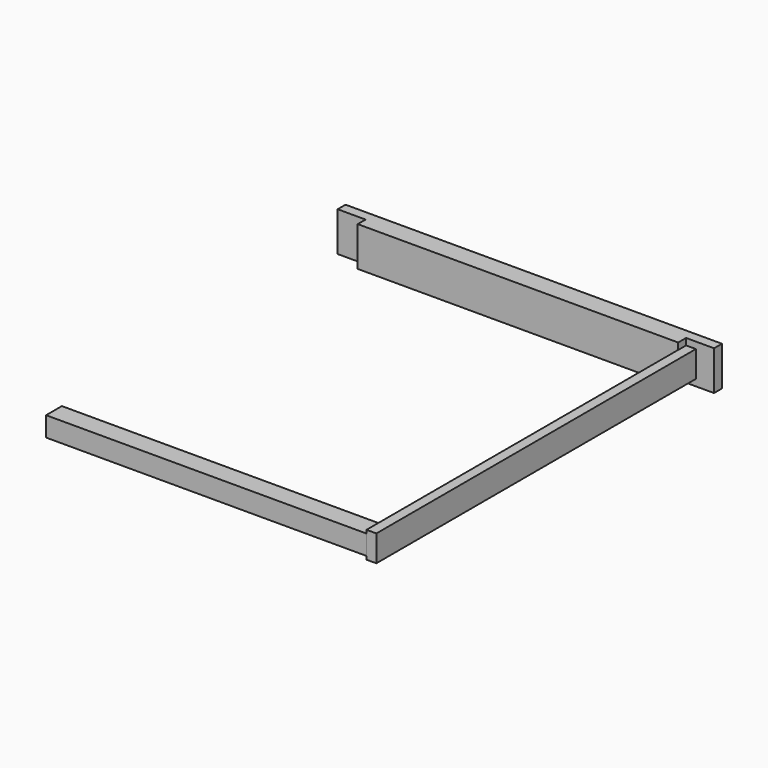
from build123d import *

# Parameters (mm, degrees)
PAD_DEPTH    = 19.05
SKETCH004_W  = 19.05
SKETCH004_H  = 19.05
PAD006_DEPTH = 309.56
SKETCH001_W  = 385.76
SKETCH001_H  = 25.4
PAD001_DEPTH = 9.525
PAD002_DEPTH = 9.53


with BuildPart() as top_bar:
    # Sketch → Pad (new body, symmetric)
    with BuildSketch(Plane.XY):
        Polygon((-181.77, 9.525), (-181.77, 19.05), (181.77, 19.05), (181.77, 9.525), (154.7825, 9.525), (154.7825, 0), (-154.7825, 0), (-154.7825, 9.525), align=None)
    extrude(amount=PAD_DEPTH, both=True)


with BuildPart() as bottom_bar:
    # Sketch004 (on ShapeBinder) → Pad006 (new body)
    with BuildSketch(Plane.YZ.offset(-154.7825)):
        with Locations((-366.71, 0)):
            Rectangle(SKETCH004_W, SKETCH004_H)
    extrude(amount=PAD006_DEPTH)


with BuildPart() as right_bar:
    # Sketch001 (on ShapeBinder) → Pad001 (new body)
    with BuildSketch(Plane(origin=(-154.7825, 0, 0), x_dir=(0, -1, 0), z_dir=(-1, 0, 0))):
        with Locations((183.355, 0)):
            Rectangle(SKETCH001_W, SKETCH001_H)
    extrude(amount=PAD001_DEPTH)

    # Sketch001 (on ShapeBinder) → Pad002 (join)
    with BuildSketch(Plane(origin=(-154.7825, 0, 0), x_dir=(0, -1, 0), z_dir=(-1, 0, 0))):
        with Locations((183.355, 0)):
            Rectangle(SKETCH001_W, SKETCH001_H)
    extrude(amount=PAD002_DEPTH)


with BuildPart() as right_bar_1:
    # Body005 placement: moved
    add(right_bar.part.moved(Location((319, 0, 0))))


solid = Compound([top_bar.part, bottom_bar.part, right_bar_1.part])
